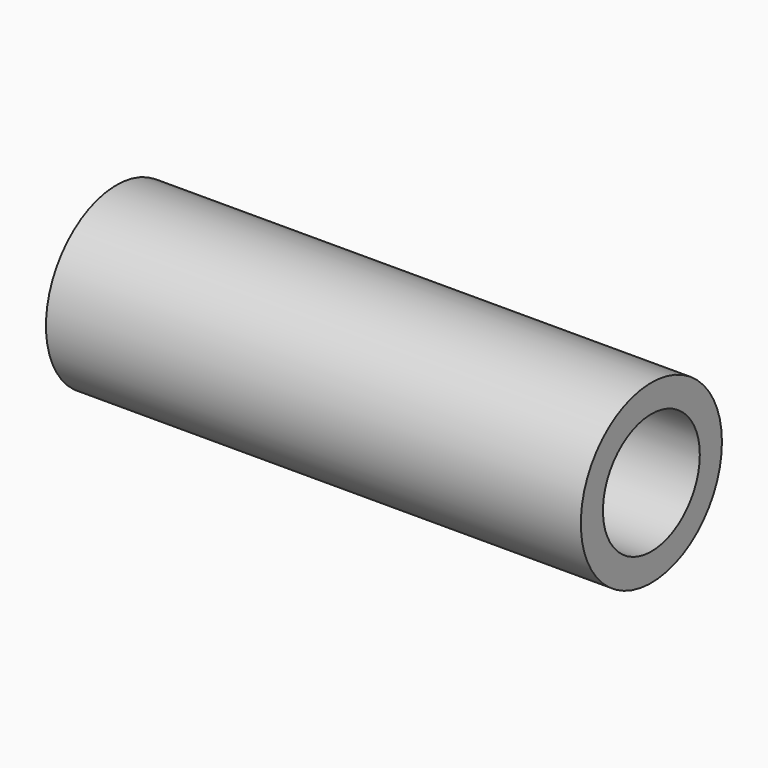
from build123d import *

# Parameters (mm, degrees)
F0_R        = 8.375
F0_R_2      = 8.35
F0_R_3      = 5.75
F1_DEPTH    = 25.4
F1_FACE_R   = 8.375
F1_FACE_R_2 = 5.75
F2_DEPTH    = 25.4


with BuildPart() as f1:
    # F0 (on Right) → F1 (new body)
    with BuildSketch(Plane.YZ):
        Circle(F0_R)
        Circle(F0_R_2, mode=Mode.SUBTRACT)
        Circle(F0_R_2)
        Circle(F0_R_3, mode=Mode.SUBTRACT)
    extrude(amount=F1_DEPTH)

    # F0 (on Right) + F1_face (on face) → F2 (join)
    with BuildSketch(Plane.YZ):
        Circle(F0_R)
        Circle(F0_R_2, mode=Mode.SUBTRACT)
    with BuildSketch(Plane.YZ.offset(25.4)):
        Circle(F1_FACE_R)
        Circle(F1_FACE_R_2, mode=Mode.SUBTRACT)
    extrude(amount=F2_DEPTH)


solid = f1.part
